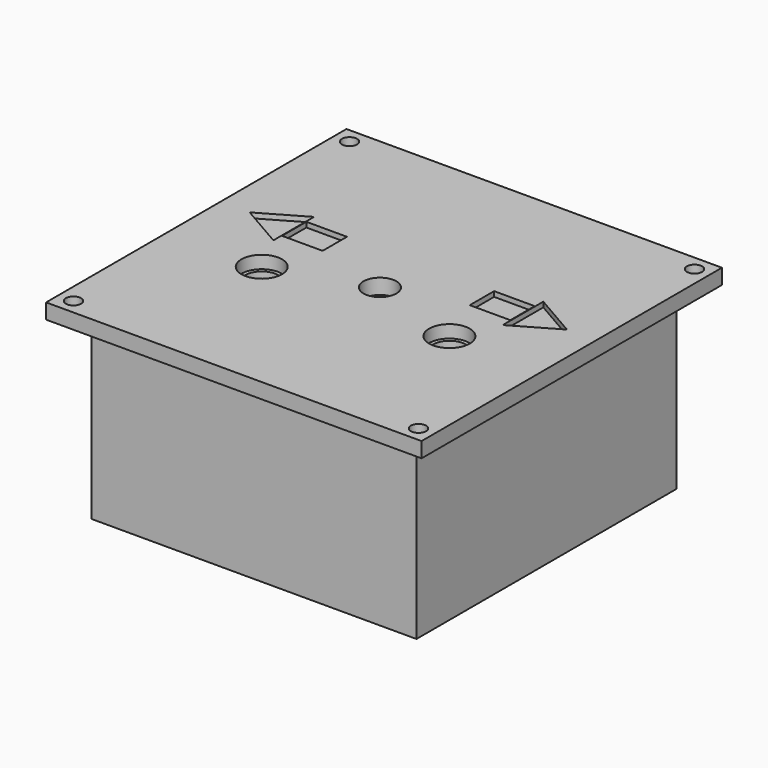
from build123d import *

# Parameters (mm, degrees)
SKETCH_W                   = 74
SKETCH_H                   = 74
PAD_DEPTH                  = 3
SKETCH002_W                = 64
SKETCH002_H                = 64
SKETCH002_W_2              = 60
SKETCH002_H_2              = 60
PAD001_DEPTH               = 35
SKETCH003_R                = 1.5
POCKET_DEPTH               = 225.675651
PAD002_DEPTH               = 32
SKETCH005_R                = 2.4
POCKET001_DEPTH            = 10
SKETCH003_MIRRORED_2_R     = 1.5
POCKET_MIRRORED_2_DEPTH    = 225.675651
PAD002_MIRRORED_2_DEPTH    = 32
SKETCH005_MIRRORED_2_R     = 2.4
POCKET001_MIRRORED_2_DEPTH = 10
SKETCH006_R                = 3.25
POCKET002_DEPTH            = 38.001
SKETCH008_R                = 4
POCKET003_DEPTH            = 2.5
SKETCH009_R                = 6
PAD003_DEPTH               = 3
SKETCH010_R                = 3.25
POCKET004_DEPTH            = 6.001
SKETCH011_R                = 3.25
POCKET005_DEPTH            = 38.001
SKETCH012_W                = 8
SKETCH012_H                = 6
POCKET006_DEPTH            = 1
SKETCH013_W                = 5
SKETCH013_H                = 5
PAD004_DEPTH               = 16


with BuildPart() as part:
    # Sketch → Pad (new body)
    with BuildSketch(Plane.XY):
        Rectangle(SKETCH_W, SKETCH_H)
    extrude(amount=PAD_DEPTH)

    # Sketch002 (on Face5 of Pad) → Pad001 (join)
    with BuildSketch(Plane(origin=(0, 0, 0), x_dir=(1, 0, 0), z_dir=(0, 0, -1))):
        Rectangle(SKETCH002_W, SKETCH002_H)
        Rectangle(SKETCH002_W_2, SKETCH002_H_2, mode=Mode.SUBTRACT)
    extrude(amount=PAD001_DEPTH)

    # Sketch003 (on Face4 of Pad001) → Pocket (cut, through all)
    with BuildSketch(Plane(origin=(0, 0, 0), x_dir=(1, 0, 0), z_dir=(0, 0, -1))):
        with Locations((-34, 34)):
            Circle(SKETCH003_R)
    pocket = extrude(amount=-POCKET_DEPTH, mode=Mode.SUBTRACT)

    # Sketch004 (on Face17 of Pocket) → Pad002 (join)
    with BuildSketch(Plane(origin=(0, 0, 0), x_dir=(1, 0, 0), z_dir=(0, 0, -1))):
        with BuildLine():
            ThreePointArc((-30, 22), (-24.343146, 24.343146), (-22, 30))
            Line((-30, 30), (-22, 30))
            Line((-30, 30), (-30, 22))
        make_face()
    pad002 = extrude(amount=PAD002_DEPTH)

    # Sketch005 (on Face17 of Pad002) → Pocket001 (cut)
    with BuildSketch(Plane(origin=(0, 0, -32), x_dir=(1, 0, 0), z_dir=(0, 0, -1))):
        with Locations((-27, 27)):
            Circle(SKETCH005_R)
    pocket001 = extrude(amount=-POCKET001_DEPTH, mode=Mode.SUBTRACT)

    # Sketch003 Mirrored 2 → Pocket Mirrored 2 (cut, through all)
    with BuildSketch(Plane(origin=(0, 0, 0), x_dir=(-1, 0, 0), z_dir=(0, 0, 1))):
        with Locations((-34, 34)):
            Circle(SKETCH003_MIRRORED_2_R)
    pocket_mirrored_2 = extrude(amount=POCKET_MIRRORED_2_DEPTH, mode=Mode.SUBTRACT)

    # Sketch004 Mirrored 2 → Pad002 Mirrored 2 (add)
    with BuildSketch(Plane(origin=(0, 0, 0), x_dir=(-1, 0, 0), z_dir=(0, 0, 1))):
        with BuildLine():
            ThreePointArc((-30, 22), (-24.343146, 24.343146), (-22, 30))
            Line((-30, 30), (-22, 30))
            Line((-30, 30), (-30, 22))
        make_face()
    pad002_mirrored_2 = extrude(amount=-PAD002_MIRRORED_2_DEPTH)

    # Sketch005 Mirrored 2 → Pocket001 Mirrored 2 (cut)
    with BuildSketch(Plane(origin=(0, 0, -32), x_dir=(-1, 0, 0), z_dir=(0, 0, 1))):
        with Locations((-27, 27)):
            Circle(SKETCH005_MIRRORED_2_R)
    pocket001_mirrored_2 = extrude(amount=POCKET001_MIRRORED_2_DEPTH, mode=Mode.SUBTRACT)

    # Mirrored001: Pocket, Pad002, Pocket001, Pocket Mirrored 2, Pad002 Mirrored 2, Pocket001 Mirrored 2 across Sketch003 H_Axis
    add(pocket.mirror(Plane(origin=(0, 0, 0), x_dir=(0, 0, -1), z_dir=(0, -1, 0))), mode=Mode.SUBTRACT)
    add(pad002.mirror(Plane(origin=(0, 0, 0), x_dir=(0, 0, -1), z_dir=(0, -1, 0))))
    add(pocket001.mirror(Plane(origin=(0, 0, 0), x_dir=(0, 0, -1), z_dir=(0, -1, 0))), mode=Mode.SUBTRACT)
    add(pocket_mirrored_2.mirror(Plane(origin=(0, 0, 0), x_dir=(0, 0, -1), z_dir=(0, -1, 0))), mode=Mode.SUBTRACT)
    add(pad002_mirrored_2.mirror(Plane(origin=(0, 0, 0), x_dir=(0, 0, -1), z_dir=(0, -1, 0))))
    add(pocket001_mirrored_2.mirror(Plane(origin=(0, 0, 0), x_dir=(0, 0, -1), z_dir=(0, -1, 0))), mode=Mode.SUBTRACT)

    # Sketch006 (on Face36 of MultiTransform) → Pocket002 (cut, through all)
    with BuildSketch(Plane.XY.offset(3)):
        with Locations((0, -1)):
            Circle(SKETCH006_R)
    extrude(amount=-POCKET002_DEPTH, mode=Mode.SUBTRACT)

    # Sketch008 (on Face23 of Pocket002) → Pocket003 (cut)
    with BuildSketch(Plane.XY.offset(3)):
        with Locations((-18.5, -7)):
            Circle(SKETCH008_R)
        with Locations((18.5, -7)):
            Circle(SKETCH008_R)
    extrude(amount=-POCKET003_DEPTH, mode=Mode.SUBTRACT)

    # Sketch009 (on Face4 of Pocket003) → Pad003 (join)
    with BuildSketch(Plane(origin=(0, 0, 0), x_dir=(1, 0, 0), z_dir=(0, 0, -1))):
        with Locations((18.5, 7)):
            Circle(SKETCH009_R)
        with Locations((-18.5, 7)):
            Circle(SKETCH009_R)
    extrude(amount=PAD003_DEPTH)

    # Sketch010 (on Face25 of Pad003) → Pocket004 (cut, through all)
    with BuildSketch(Plane(origin=(0, 0, -3), x_dir=(1, 0, 0), z_dir=(0, 0, -1))):
        with Locations((-18.5, 7)):
            Circle(SKETCH010_R)
    extrude(amount=-POCKET004_DEPTH, mode=Mode.SUBTRACT)

    # Sketch011 (on Face27 of Pocket004) → Pocket005 (cut, through all)
    with BuildSketch(Plane.XY.offset(3)):
        with Locations((18.5, -7)):
            Circle(SKETCH011_R)
    extrude(amount=-POCKET005_DEPTH, mode=Mode.SUBTRACT)

    # Sketch012 (on Face27 of Pocket005) → Pocket006 (cut)
    with BuildSketch(Plane.XY.offset(3)):
        with Locations((-18.5, 6)):
            Rectangle(SKETCH012_W, SKETCH012_H)
        Polygon((-22.6, 1), (-22.6, 11), (-31.260254, 6), align=None)
    pocket006 = extrude(amount=-POCKET006_DEPTH, mode=Mode.SUBTRACT)

    # Mirrored002: Pocket006 across Sketch012 V_Axis
    add(pocket006.mirror(Plane(origin=(0, 0, 3), x_dir=(0, 0, 1), z_dir=(1, 0, 0))), mode=Mode.SUBTRACT)

    # Sketch013 (on Face4 of MultiTransform001) → Pad004 (join)
    with BuildSketch(Plane(origin=(0, 0, 0), x_dir=(1, 0, 0), z_dir=(0, 0, -1))):
        with Locations((-27.5, -19.5)):
            Rectangle(SKETCH013_W, SKETCH013_H)
        with Locations((17.5, -2.5)):
            Rectangle(SKETCH013_W, SKETCH013_H)
    extrude(amount=PAD004_DEPTH)


solid = part.part
